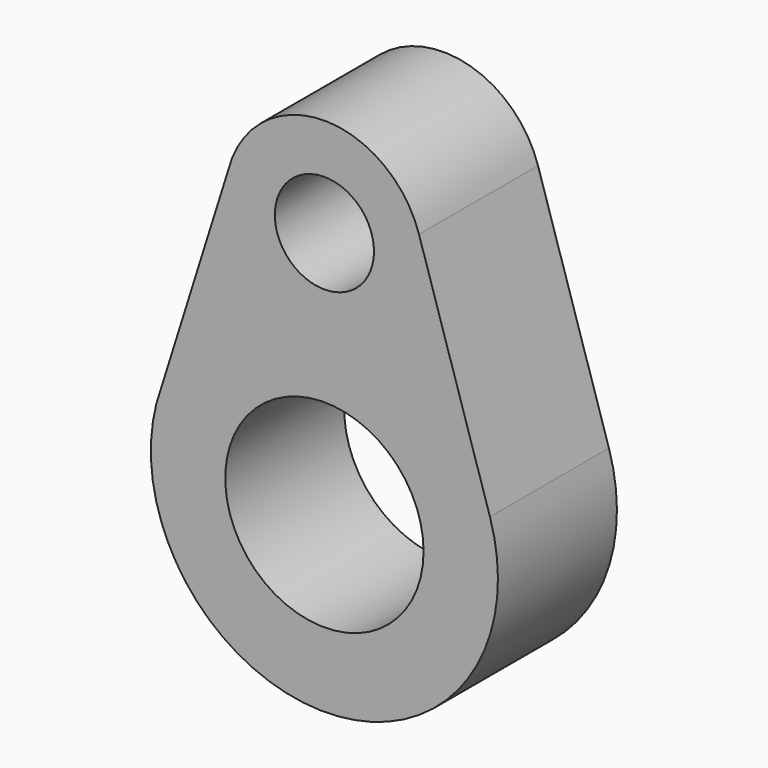
from build123d import *

# Parameters (mm, degrees)
F0_R     = 2
F0_R_2   = 1
F1_DEPTH = 3


with BuildPart() as f1:
    # F0 (on Front) → F1 (new body)
    with BuildSketch(Plane.XZ):
        with BuildLine():
            Line((3.338787, 1.05), (1.907878, 5.6))
            ThreePointArc((1.907878, 5.6), (-0.052007, 6.999324), (-1.936492, 5.5))
            Line((-1.936492, 5.5), (-3.38886, 0.875))
            ThreePointArc((-3.38886, 0.875), (0.091011, -3.498817), (3.338787, 1.05))
        make_face()
        Circle(F0_R, mode=Mode.SUBTRACT)
        with Locations((0, 5)):
            Circle(F0_R_2, mode=Mode.SUBTRACT)
    extrude(amount=F1_DEPTH)


solid = f1.part
